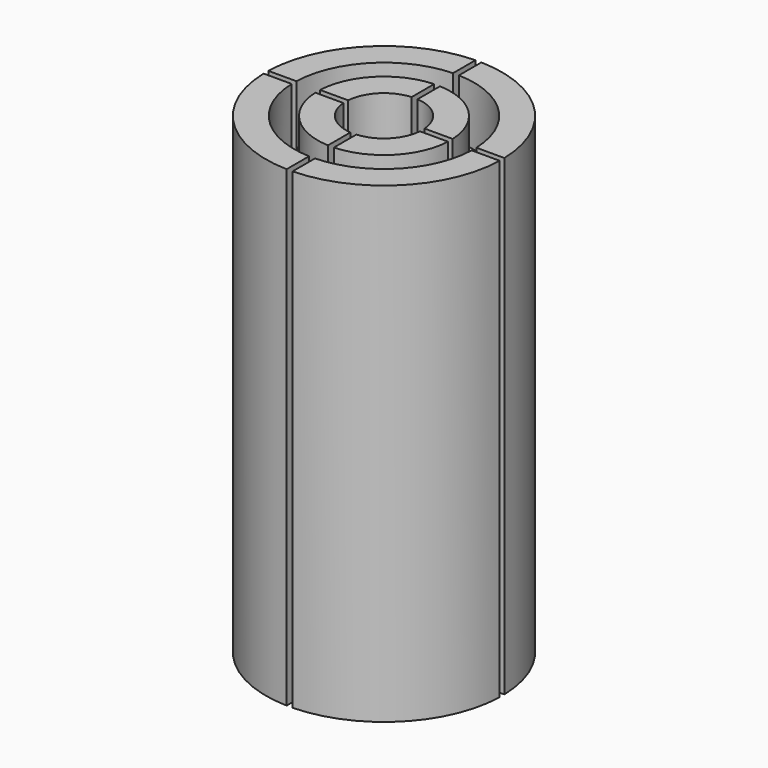
from build123d import *

# Parameters (mm, degrees)
TUBE002_R                = 7.625
TUBE002_R_2              = 5.625
TUBE002_DEPTH            = 5
TUBE001_R                = 7.625
TUBE001_R_2              = 5.625
TUBE001_DEPTH            = 5
BOX_W                    = 20
BOX_H                    = 0.5
BOX_DEPTH                = 40
BOX001_W                 = 20
BOX001_H                 = 0.5
BOX001_DEPTH             = 40
COMPOUND_PLACEMENT_ANGLE = 90
TUBE_R                   = 10
TUBE_R_2                 = 3.25
TUBE_DEPTH               = 40


with BuildPart() as mountringgroove001:
    # Tube002 → Tube002 (new body)
    with BuildSketch(Plane.XY.offset(35)):
        Circle(TUBE002_R)
        Circle(TUBE002_R_2, mode=Mode.SUBTRACT)
    extrude(amount=TUBE002_DEPTH)


with BuildPart() as mountringgroove:
    # Tube001 → Tube001 (new body)
    with BuildSketch(Plane.XY):
        Circle(TUBE001_R)
        Circle(TUBE001_R_2, mode=Mode.SUBTRACT)
    extrude(amount=TUBE001_DEPTH)


with BuildPart() as cube:
    # Box → Box (new body)
    with BuildSketch(Plane(origin=(-10, -0.25, 0), x_dir=(1, 0, 0), z_dir=(0, 0, 1))):
        with Locations((10, 0.25)):
            Rectangle(BOX_W, BOX_H)
    extrude(amount=BOX_DEPTH)


with BuildPart() as fusion:
    # Box001 → Box001 (new body)
    with BuildSketch(Plane(origin=(-10, -0.25, 0), x_dir=(1, 0, 0), z_dir=(0, 0, 1))):
        with Locations((10, 0.25)):
            Rectangle(BOX001_W, BOX001_H)
    extrude(amount=BOX001_DEPTH)


with BuildPart() as fusion_1:
    # Compound placement: moved
    add(fusion.part.rotate(Axis((0, 0, 0), (0, 0, 1)), COMPOUND_PLACEMENT_ANGLE))

    # Fusion: union Cube
    add(cube.part)


with BuildPart() as modulatorplates:
    # Tube → Tube (new body)
    with BuildSketch(Plane.XY):
        Circle(TUBE_R)
        Circle(TUBE_R_2, mode=Mode.SUBTRACT)
    extrude(amount=TUBE_DEPTH)

    # Cut: cut Fusion
    add(fusion_1.part, mode=Mode.SUBTRACT)

    # Cut001: cut MountringGroove
    add(mountringgroove.part, mode=Mode.SUBTRACT)

    # Cut002: cut MountringGroove001
    add(mountringgroove001.part, mode=Mode.SUBTRACT)


with BuildPart() as modulatorplates_1:
    # Cut002 placement: moved
    add(modulatorplates.part.moved(Location((0, 0, 11))))


solid = modulatorplates_1.part
